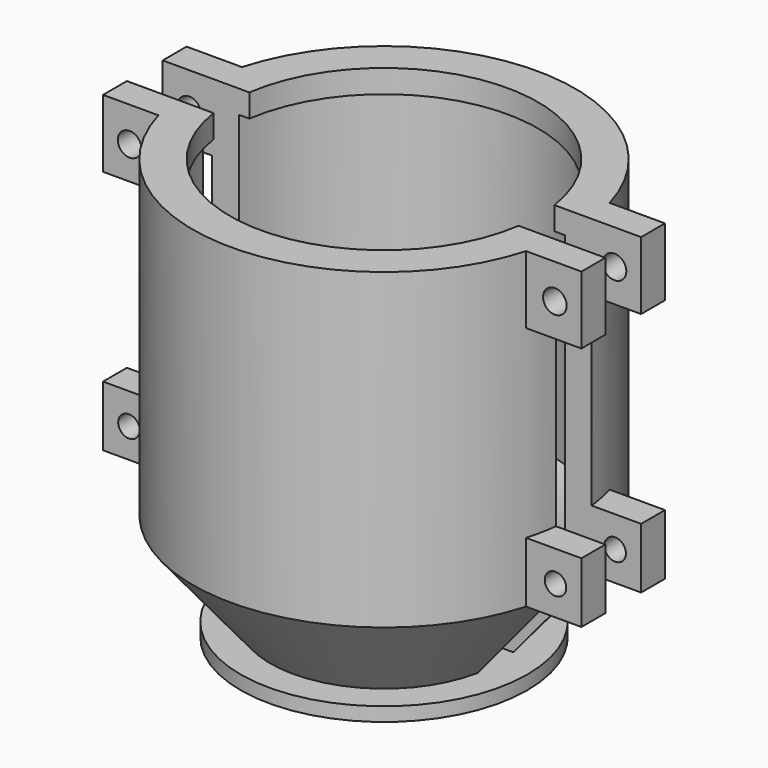
from build123d import *

# Parameters (mm, degrees)
F2_W     = 82.369022
F2_H     = 85.514376
F3_DEPTH = 3.81
F4_W     = 12.96926
F4_H     = 10.300532
F4_R     = 1.830272
F4_H_2   = 11.536308
F4_R_2   = 2.006128
F5_DEPTH = 5.08


with BuildPart() as f1:
    # F0 (on Front) → F1 (revolve)
    with BuildSketch(Plane.XZ):
        Polygon((8.158268, 0), (19.363601, 0), (32.534778, 16.021658), (32.534778, 69.296129), (26.244067, 69.296129), (26.244067, 65.364435), (28.01333, 65.364435), (28.01333, 16.021658), (19.363601, 5.602666), (8.158268, 5.602666), align=None)
    revolve(axis=Axis((0, 0, 31.502709), (0, 0, 1)))

    # F2 (on Front) → F3 (cut, symmetric)
    with BuildSketch(Plane.XZ):
        with Locations((2.948772, 30.863809)):
            Rectangle(F2_W, F2_H)
    extrude(amount=F3_DEPTH, both=True, mode=Mode.SUBTRACT)

    # F4 (on face) → F5 (join)
    with BuildSketch(Plane.XZ.offset(-3.81)):
        with Locations((34.237658, 21.171924)):
            Rectangle(F4_W, F4_H)
        with Locations((36.308099, 21.046696)):
            Circle(F4_R, mode=Mode.SUBTRACT)
        with Locations((34.237658, 63.527975)):
            Rectangle(F4_W, F4_H_2)
        with Locations((36.200434, 63.358307)):
            Circle(F4_R_2, mode=Mode.SUBTRACT)
        with Locations((-34.237658, 63.527975)):
            Rectangle(F4_W, F4_H_2)
        with Locations((-36.200434, 63.358307)):
            Circle(F4_R_2, mode=Mode.SUBTRACT)
        with Locations((-34.237658, 21.171924)):
            Rectangle(F4_W, F4_H)
        with Locations((-36.308099, 21.046696)):
            Circle(F4_R, mode=Mode.SUBTRACT)
    extrude(amount=-F5_DEPTH)

    # F6: F1 across plane


with BuildPart() as f1_1:
    add(f1.part)
    add(f1.part.mirror(Plane.XZ))


with BuildPart() as f8:
    # F7 (on Front) → F8 (revolve)
    with BuildSketch(Plane.XZ):
        Polygon((8.25013, 0), (8.25013, 5.668839), (14.317914, 5.668839), (14.317914, 8.07067), (6.417154, 8.07067), (6.417154, -2.358333), (24.430886, -2.358333), (24.430886, 0), align=None)
    revolve(axis=Axis((0, 0, 31.502709), (0, 0, 1)))


solid = Compound([f1_1.part, f8.part])
